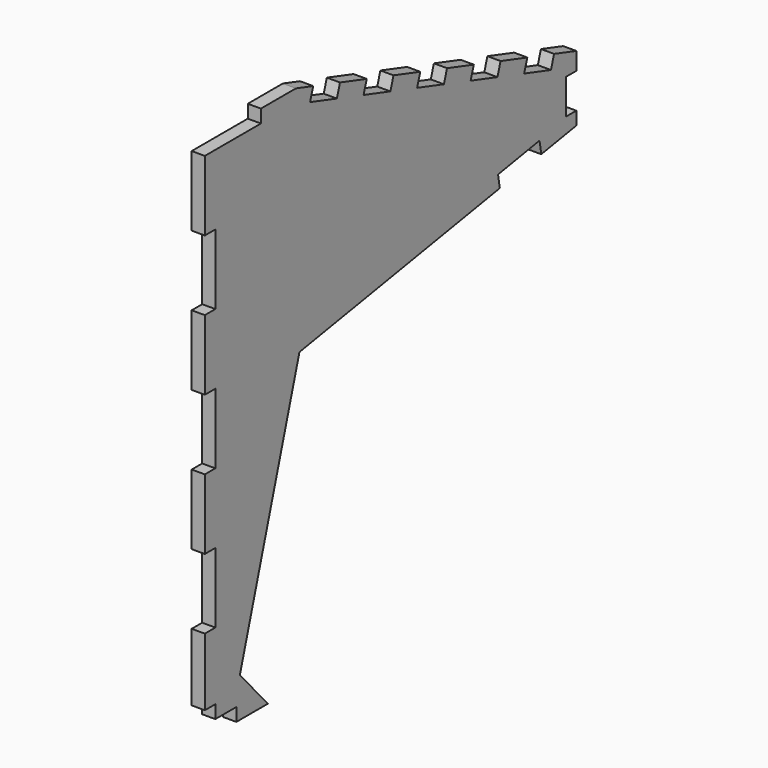
from build123d import *

# Parameters (mm, degrees)
F1_DEPTH = 3


with BuildPart() as f1:
    # F0 (on Right) → F1 (new body)
    with BuildSketch(Plane.YZ):
        Polygon((-28.672605, -45.453316), (-28.672605, -48.453316), (-19.672605, -48.453316), (-27.672605, -39.453316), (-10.672605, 18.546684), (46.496383, 28.243702), (45.994689, 31.201455), (57.8257, 33.208234), (58.327395, 30.250482), (68.327395, 31.946684), (68.327395, 34.946684), (65.327395, 34.946684), (65.327395, 42.946684), (68.327395, 42.946684), (68.327395, 46.946684), (61.981544, 48.929763), (61.086719, 46.066323), (53.450879, 48.452523), (54.345704, 51.315963), (46.709864, 53.702163), (45.815039, 50.838723), (38.179199, 53.224923), (39.074024, 56.088362), (31.438184, 58.474562), (30.543359, 55.611122), (22.907519, 57.997322), (23.802344, 60.860762), (16.166505, 63.246962), (15.27168, 60.383522), (7.63584, 62.769722), (8.530665, 65.633162), (0.894825, 68.019362), (0, 65.155922), (-7.63584, 67.542122), (-6.741015, 70.405562), (-11.672605, 71.946684), (-21.672605, 71.946684), (-21.672605, 68.946684), (-37.672605, 68.946684), (-37.672605, 52.946684), (-34.672605, 52.946684), (-34.672605, 36.946684), (-37.672605, 36.946684), (-37.672605, 20.946684), (-34.672605, 20.946684), (-34.672605, 4.946684), (-37.672605, 4.946684), (-37.672605, -11.053316), (-34.672605, -11.053316), (-34.672605, -27.053316), (-37.672605, -27.053316), (-37.672605, -42.453316), (-34.672605, -42.453316), (-34.672605, -45.453316), align=None)
    extrude(amount=F1_DEPTH)


solid = f1.part
